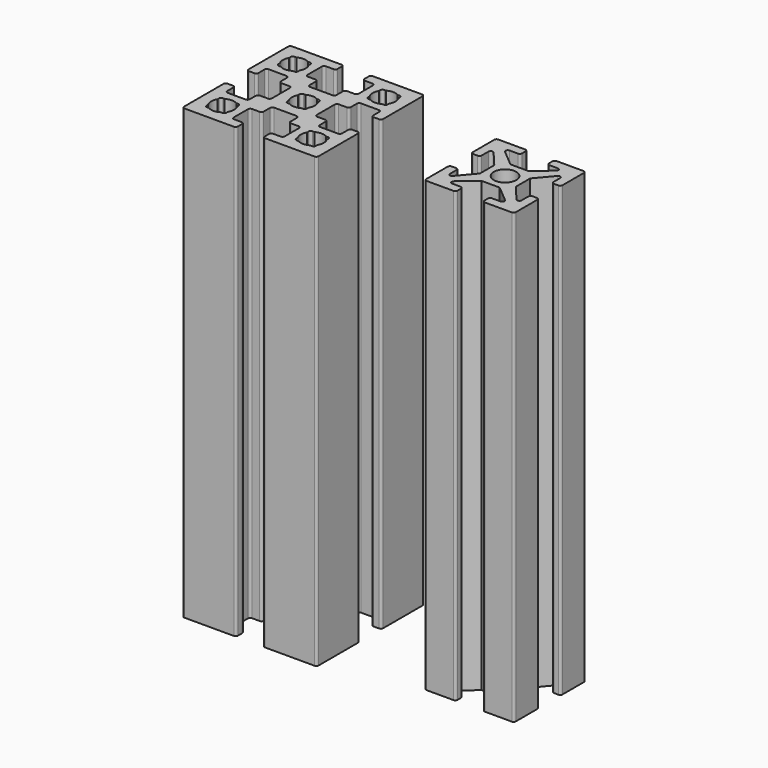
from build123d import *

# Parameters (mm, degrees)
F0_R     = 1.25
F1_DEPTH = 50


with BuildPart() as f1:
    # F0 (on Top) → F1 (new body)
    with BuildSketch(Plane.XY):
        with BuildLine():
            Line((-7.5, -1.75), (-7.5, -7.25))
            ThreePointArc((-7.5, -7.25), (-7.426777, -7.426777), (-7.25, -7.5))
            Line((-7.25, -7.5), (-1.75, -7.5))
            ThreePointArc((-1.75, -7.5), (-1.573223, -7.426777), (-1.5, -7.25))
            Line((-1.5, -7.25), (-1.5, -6.65))
            ThreePointArc((-1.5, -6.65), (-1.573223, -6.473223), (-1.75, -6.4))
            Line((-1.75, -6.4), (-2.6, -6.4))
            ThreePointArc((-2.6, -6.4), (-2.776777, -6.326777), (-2.85, -6.15))
            Line((-2.85, -6.15), (-2.85, -4.15))
            ThreePointArc((-2.85, -4.15), (-2.776777, -3.973223), (-2.6, -3.9))
            Line((-2.6, -3.9), (-1.75, -3.9))
            ThreePointArc((-1.75, -3.9), (-1.573223, -3.826777), (-1.5, -3.65))
            Line((-1.5, -3.65), (-1.5, -2.75))
            ThreePointArc((-1.5, -2.75), (-1.426777, -2.573223), (-1.25, -2.5))
            Line((-1.25, -2.5), (0, -2.5))
            Line((0, -2.5), (1.25, -2.5))
            ThreePointArc((1.25, -2.5), (1.426777, -2.573223), (1.5, -2.75))
            Line((1.5, -2.75), (1.5, -3.65))
            ThreePointArc((1.5, -3.65), (1.573223, -3.826777), (1.75, -3.9))
            Line((1.75, -3.9), (2.6, -3.9))
            ThreePointArc((2.6, -3.9), (2.776777, -3.973223), (2.85, -4.15))
            Line((2.85, -4.15), (2.85, -6.15))
            ThreePointArc((2.85, -6.15), (2.776777, -6.326777), (2.6, -6.4))
            Line((2.6, -6.4), (1.75, -6.4))
            ThreePointArc((1.75, -6.4), (1.573223, -6.473223), (1.5, -6.65))
            Line((1.5, -6.65), (1.5, -7.25))
            ThreePointArc((1.5, -7.25), (1.573223, -7.426777), (1.75, -7.5))
            Line((1.75, -7.5), (7.25, -7.5))
            ThreePointArc((7.25, -7.5), (7.426777, -7.426777), (7.5, -7.25))
            Line((7.5, -7.25), (7.5, -1.75))
            ThreePointArc((7.5, -1.75), (7.426777, -1.573223), (7.25, -1.5))
            Line((7.25, -1.5), (6.65, -1.5))
            ThreePointArc((6.65, -1.5), (6.473223, -1.573223), (6.4, -1.75))
            Line((6.4, -1.75), (6.4, -2.6))
            ThreePointArc((6.4, -2.6), (6.326777, -2.776777), (6.15, -2.85))
            Line((6.15, -2.85), (4.15, -2.85))
            ThreePointArc((4.15, -2.85), (3.973223, -2.776777), (3.9, -2.6))
            Line((3.9, -2.6), (3.9, -1.75))
            ThreePointArc((3.9, -1.75), (3.826777, -1.573223), (3.65, -1.5))
            Line((3.65, -1.5), (2.75, -1.5))
            ThreePointArc((2.75, -1.5), (2.573223, -1.426777), (2.5, -1.25))
            Line((2.5, -1.25), (2.5, 0))
            Line((2.5, 0), (2.5, 1.25))
            ThreePointArc((2.5, 1.25), (2.573223, 1.426777), (2.75, 1.5))
            Line((2.75, 1.5), (3.65, 1.5))
            ThreePointArc((3.65, 1.5), (3.826777, 1.573223), (3.9, 1.75))
            Line((3.9, 1.75), (3.9, 2.6))
            ThreePointArc((3.9, 2.6), (3.973223, 2.776777), (4.15, 2.85))
            Line((4.15, 2.85), (6.15, 2.85))
            ThreePointArc((6.15, 2.85), (6.326777, 2.776777), (6.4, 2.6))
            Line((6.4, 2.6), (6.4, 1.75))
            ThreePointArc((6.4, 1.75), (6.473223, 1.573223), (6.65, 1.5))
            Line((6.65, 1.5), (7.25, 1.5))
            ThreePointArc((7.25, 1.5), (7.426777, 1.573223), (7.5, 1.75))
            Line((7.5, 1.75), (7.5, 7.25))
            ThreePointArc((7.5, 7.25), (7.426777, 7.426777), (7.25, 7.5))
            Line((7.25, 7.5), (1.75, 7.5))
            ThreePointArc((1.75, 7.5), (1.573223, 7.426777), (1.5, 7.25))
            Line((1.5, 7.25), (1.5, 6.65))
            ThreePointArc((1.5, 6.65), (1.573223, 6.473223), (1.75, 6.4))
            Line((1.75, 6.4), (2.6, 6.4))
            ThreePointArc((2.6, 6.4), (2.776777, 6.326777), (2.85, 6.15))
            Line((2.85, 6.15), (2.85, 4.15))
            ThreePointArc((2.85, 4.15), (2.776777, 3.973223), (2.6, 3.9))
            Line((2.6, 3.9), (1.75, 3.9))
            ThreePointArc((1.75, 3.9), (1.573223, 3.826777), (1.5, 3.65))
            Line((1.5, 3.65), (1.5, 2.75))
            ThreePointArc((1.5, 2.75), (1.426777, 2.573223), (1.25, 2.5))
            Line((1.25, 2.5), (0, 2.5))
            Line((0, 2.5), (-1.25, 2.5))
            ThreePointArc((-1.25, 2.5), (-1.426777, 2.573223), (-1.5, 2.75))
            Line((-1.5, 2.75), (-1.5, 3.65))
            ThreePointArc((-1.5, 3.65), (-1.573223, 3.826777), (-1.75, 3.9))
            Line((-1.75, 3.9), (-2.6, 3.9))
            ThreePointArc((-2.6, 3.9), (-2.776777, 3.973223), (-2.85, 4.15))
            Line((-2.85, 4.15), (-2.85, 6.15))
            ThreePointArc((-2.85, 6.15), (-2.776777, 6.326777), (-2.6, 6.4))
            Line((-2.6, 6.4), (-1.75, 6.4))
            ThreePointArc((-1.75, 6.4), (-1.573223, 6.473223), (-1.5, 6.65))
            Line((-1.5, 6.65), (-1.5, 7.25))
            ThreePointArc((-1.5, 7.25), (-1.573223, 7.426777), (-1.75, 7.5))
            Line((-1.75, 7.5), (-7.25, 7.5))
            ThreePointArc((-7.25, 7.5), (-7.426777, 7.426777), (-7.5, 7.25))
            Line((-7.5, 7.25), (-7.5, 1.75))
            ThreePointArc((-7.5, 1.75), (-7.426777, 1.573223), (-7.25, 1.5))
            Line((-7.25, 1.5), (-6.65, 1.5))
            ThreePointArc((-6.65, 1.5), (-6.473223, 1.573223), (-6.4, 1.75))
            Line((-6.4, 1.75), (-6.4, 2.6))
            ThreePointArc((-6.4, 2.6), (-6.326777, 2.776777), (-6.15, 2.85))
            Line((-6.15, 2.85), (-4.15, 2.85))
            ThreePointArc((-4.15, 2.85), (-3.973223, 2.776777), (-3.9, 2.6))
            Line((-3.9, 2.6), (-3.9, 1.75))
            ThreePointArc((-3.9, 1.75), (-3.826777, 1.573223), (-3.65, 1.5))
            Line((-3.65, 1.5), (-2.75, 1.5))
            ThreePointArc((-2.75, 1.5), (-2.573223, 1.426777), (-2.5, 1.25))
            Line((-2.5, 1.25), (-2.5, 0))
            Line((-2.5, 0), (-2.5, -1.25))
            ThreePointArc((-2.5, -1.25), (-2.573223, -1.426777), (-2.75, -1.5))
            Line((-2.75, -1.5), (-3.65, -1.5))
            ThreePointArc((-3.65, -1.5), (-3.826777, -1.573223), (-3.9, -1.75))
            Line((-3.9, -1.75), (-3.9, -2.6))
            ThreePointArc((-3.9, -2.6), (-3.973223, -2.776777), (-4.15, -2.85))
            Line((-4.15, -2.85), (-6.15, -2.85))
            ThreePointArc((-6.15, -2.85), (-6.326777, -2.776777), (-6.4, -2.6))
            Line((-6.4, -2.6), (-6.4, -1.75))
            ThreePointArc((-6.4, -1.75), (-6.473223, -1.573223), (-6.65, -1.5))
            Line((-6.65, -1.5), (-7.25, -1.5))
            ThreePointArc((-7.25, -1.5), (-7.426777, -1.573223), (-7.5, -1.75))
        make_face()
        with BuildLine():
            ThreePointArc((-6.1, -5.64469), (-6.275, -5), (-6.1, -4.35531))
            Line((-6.1, -4.35531), (-6.1, -4.15))
            ThreePointArc((-6.1, -4.15), (-6.026777, -3.973223), (-5.85, -3.9))
            Line((-5.85, -3.9), (-5.64469, -3.9))
            ThreePointArc((-5.64469, -3.9), (-5, -3.725), (-4.35531, -3.9))
            Line((-4.35531, -3.9), (-4.15, -3.9))
            ThreePointArc((-4.15, -3.9), (-3.973223, -3.973223), (-3.9, -4.15))
            Line((-3.9, -4.15), (-3.9, -4.35531))
            ThreePointArc((-3.9, -4.35531), (-3.725, -5), (-3.9, -5.64469))
            Line((-3.9, -5.64469), (-3.9, -5.85))
            ThreePointArc((-3.9, -5.85), (-3.973223, -6.026777), (-4.15, -6.1))
            Line((-4.15, -6.1), (-4.35531, -6.1))
            ThreePointArc((-4.35531, -6.1), (-5, -6.275), (-5.64469, -6.1))
            Line((-5.64469, -6.1), (-5.85, -6.1))
            ThreePointArc((-5.85, -6.1), (-6.026777, -6.026777), (-6.1, -5.85))
            Line((-6.1, -5.85), (-6.1, -5.64469))
        make_face(mode=Mode.SUBTRACT)
        with BuildLine():
            Line((3.9, -5.85), (3.9, -5.64469))
            ThreePointArc((3.9, -5.64469), (3.725, -5), (3.9, -4.35531))
            Line((3.9, -4.35531), (3.9, -4.15))
            ThreePointArc((3.9, -4.15), (3.973223, -3.973223), (4.15, -3.9))
            Line((4.15, -3.9), (4.35531, -3.9))
            ThreePointArc((4.35531, -3.9), (5, -3.725), (5.64469, -3.9))
            Line((5.64469, -3.9), (5.85, -3.9))
            ThreePointArc((5.85, -3.9), (6.026777, -3.973223), (6.1, -4.15))
            Line((6.1, -4.15), (6.1, -4.35531))
            ThreePointArc((6.1, -4.35531), (6.275, -5), (6.1, -5.64469))
            Line((6.1, -5.64469), (6.1, -5.85))
            ThreePointArc((6.1, -5.85), (6.026777, -6.026777), (5.85, -6.1))
            Line((5.85, -6.1), (5.64469, -6.1))
            ThreePointArc((5.64469, -6.1), (5, -6.275), (4.35531, -6.1))
            Line((4.35531, -6.1), (4.15, -6.1))
            ThreePointArc((4.15, -6.1), (3.973223, -6.026777), (3.9, -5.85))
        make_face(mode=Mode.SUBTRACT)
        with BuildLine():
            ThreePointArc((-1.1, -0.64469), (-1.275, 0), (-1.1, 0.64469))
            Line((-1.1, 0.64469), (-1.1, 0.85))
            ThreePointArc((-1.1, 0.85), (-1.026777, 1.026777), (-0.85, 1.1))
            Line((-0.85, 1.1), (-0.64469, 1.1))
            ThreePointArc((-0.64469, 1.1), (0, 1.275), (0.64469, 1.1))
            Line((0.64469, 1.1), (0.85, 1.1))
            ThreePointArc((0.85, 1.1), (1.026777, 1.026777), (1.1, 0.85))
            Line((1.1, 0.85), (1.1, 0.64469))
            ThreePointArc((1.1, 0.64469), (1.275, 0), (1.1, -0.64469))
            Line((1.1, -0.64469), (1.1, -0.85))
            ThreePointArc((1.1, -0.85), (1.026777, -1.026777), (0.85, -1.1))
            Line((0.85, -1.1), (0.64469, -1.1))
            ThreePointArc((0.64469, -1.1), (0, -1.275), (-0.64469, -1.1))
            Line((-0.64469, -1.1), (-0.85, -1.1))
            ThreePointArc((-0.85, -1.1), (-1.026777, -1.026777), (-1.1, -0.85))
            Line((-1.1, -0.85), (-1.1, -0.64469))
        make_face(mode=Mode.SUBTRACT)
        with BuildLine():
            Line((-5.85, 6.1), (-5.64469, 6.1))
            ThreePointArc((-5.64469, 6.1), (-5, 6.275), (-4.35531, 6.1))
            Line((-4.35531, 6.1), (-4.15, 6.1))
            ThreePointArc((-4.15, 6.1), (-3.973223, 6.026777), (-3.9, 5.85))
            Line((-3.9, 5.85), (-3.9, 5.64469))
            ThreePointArc((-3.9, 5.64469), (-3.725, 5), (-3.9, 4.35531))
            Line((-3.9, 4.35531), (-3.9, 4.15))
            ThreePointArc((-3.9, 4.15), (-3.973223, 3.973223), (-4.15, 3.9))
            Line((-4.15, 3.9), (-4.35531, 3.9))
            ThreePointArc((-4.35531, 3.9), (-5, 3.725), (-5.64469, 3.9))
            Line((-5.64469, 3.9), (-5.85, 3.9))
            ThreePointArc((-5.85, 3.9), (-6.026777, 3.973223), (-6.1, 4.15))
            Line((-6.1, 4.15), (-6.1, 4.35531))
            ThreePointArc((-6.1, 4.35531), (-6.275, 5), (-6.1, 5.64469))
            Line((-6.1, 5.64469), (-6.1, 5.85))
            ThreePointArc((-6.1, 5.85), (-6.026777, 6.026777), (-5.85, 6.1))
        make_face(mode=Mode.SUBTRACT)
        with BuildLine():
            Line((3.9, 5.64469), (3.9, 5.85))
            ThreePointArc((3.9, 5.85), (3.973223, 6.026777), (4.15, 6.1))
            Line((4.15, 6.1), (4.35531, 6.1))
            ThreePointArc((4.35531, 6.1), (5, 6.275), (5.64469, 6.1))
            Line((5.64469, 6.1), (5.85, 6.1))
            ThreePointArc((5.85, 6.1), (6.026777, 6.026777), (6.1, 5.85))
            Line((6.1, 5.85), (6.1, 5.64469))
            ThreePointArc((6.1, 5.64469), (6.275, 5), (6.1, 4.35531))
            Line((6.1, 4.35531), (6.1, 4.15))
            ThreePointArc((6.1, 4.15), (6.026777, 3.973223), (5.85, 3.9))
            Line((5.85, 3.9), (5.64469, 3.9))
            ThreePointArc((5.64469, 3.9), (5, 3.725), (4.35531, 3.9))
            Line((4.35531, 3.9), (4.15, 3.9))
            ThreePointArc((4.15, 3.9), (3.973223, 3.973223), (3.9, 4.15))
            Line((3.9, 4.15), (3.9, 4.35531))
            ThreePointArc((3.9, 4.35531), (3.725, 5), (3.9, 5.64469))
        make_face(mode=Mode.SUBTRACT)
        with BuildLine():
            ThreePointArc((17.75, -1.5), (17.573223, -1.573223), (17.5, -1.75))
            Line((17.5, -1.75), (17.5, -4.75))
            ThreePointArc((17.5, -4.75), (17.573223, -4.926777), (17.75, -5))
            Line((17.75, -5), (20.75, -5))
            ThreePointArc((20.75, -5), (20.926777, -4.926777), (21, -4.75))
            Line((21, -4.75), (21, -4.25))
            ThreePointArc((21, -4.25), (20.926777, -4.073223), (20.75, -4))
            Line((20.75, -4), (19.809363, -4))
            ThreePointArc((19.809363, -4), (19.574509, -3.835692), (19.648362, -3.558745))
            Line((19.648362, -3.558745), (21.5, -2))
            Line((21.5, -2), (22.5, -2))
            Line((22.5, -2), (23.5, -2))
            Line((23.5, -2), (25.351638, -3.558745))
            ThreePointArc((25.351638, -3.558745), (25.425491, -3.835692), (25.190637, -4))
            Line((25.190637, -4), (24.25, -4))
            ThreePointArc((24.25, -4), (24.073223, -4.073223), (24, -4.25))
            Line((24, -4.25), (24, -4.75))
            ThreePointArc((24, -4.75), (24.073223, -4.926777), (24.25, -5))
            Line((24.25, -5), (27.25, -5))
            ThreePointArc((27.25, -5), (27.426777, -4.926777), (27.5, -4.75))
            Line((27.5, -4.75), (27.5, -1.75))
            ThreePointArc((27.5, -1.75), (27.426777, -1.573223), (27.25, -1.5))
            Line((27.25, -1.5), (26.75, -1.5))
            ThreePointArc((26.75, -1.5), (26.573223, -1.573223), (26.5, -1.75))
            Line((26.5, -1.75), (26.5, -2.690637))
            ThreePointArc((26.5, -2.690637), (26.335692, -2.925491), (26.058745, -2.851638))
            Line((26.058745, -2.851638), (24.5, -1))
            Line((24.5, -1), (24.5, 0))
            Line((24.5, 0), (24.5, 1))
            Line((24.5, 1), (26.058745, 2.851638))
            ThreePointArc((26.058745, 2.851638), (26.335692, 2.925491), (26.5, 2.690637))
            Line((26.5, 2.690637), (26.5, 1.75))
            ThreePointArc((26.5, 1.75), (26.573223, 1.573223), (26.75, 1.5))
            Line((26.75, 1.5), (27.25, 1.5))
            ThreePointArc((27.25, 1.5), (27.426777, 1.573223), (27.5, 1.75))
            Line((27.5, 1.75), (27.5, 4.75))
            ThreePointArc((27.5, 4.75), (27.426777, 4.926777), (27.25, 5))
            Line((27.25, 5), (24.25, 5))
            ThreePointArc((24.25, 5), (24.073223, 4.926777), (24, 4.75))
            Line((24, 4.75), (24, 4.25))
            ThreePointArc((24, 4.25), (24.073223, 4.073223), (24.25, 4))
            Line((24.25, 4), (25.190637, 4))
            ThreePointArc((25.190637, 4), (25.425491, 3.835692), (25.351638, 3.558745))
            Line((25.351638, 3.558745), (23.5, 2))
            Line((23.5, 2), (22.5, 2))
            Line((22.5, 2), (21.5, 2))
            Line((21.5, 2), (19.648362, 3.558745))
            ThreePointArc((19.648362, 3.558745), (19.574509, 3.835692), (19.809363, 4))
            Line((19.809363, 4), (20.75, 4))
            ThreePointArc((20.75, 4), (20.926777, 4.073223), (21, 4.25))
            Line((21, 4.25), (21, 4.75))
            ThreePointArc((21, 4.75), (20.926777, 4.926777), (20.75, 5))
            Line((20.75, 5), (17.75, 5))
            ThreePointArc((17.75, 5), (17.573223, 4.926777), (17.5, 4.75))
            Line((17.5, 4.75), (17.5, 1.75))
            ThreePointArc((17.5, 1.75), (17.573223, 1.573223), (17.75, 1.5))
            Line((17.75, 1.5), (18.25, 1.5))
            ThreePointArc((18.25, 1.5), (18.426777, 1.573223), (18.5, 1.75))
            Line((18.5, 1.75), (18.5, 2.690637))
            ThreePointArc((18.5, 2.690637), (18.664308, 2.925491), (18.941255, 2.851638))
            Line((18.941255, 2.851638), (20.5, 1))
            Line((20.5, 1), (20.5, 0))
            Line((20.5, 0), (20.5, -1))
            Line((20.5, -1), (18.941255, -2.851638))
            ThreePointArc((18.941255, -2.851638), (18.664308, -2.925491), (18.5, -2.690637))
            Line((18.5, -2.690637), (18.5, -1.75))
            ThreePointArc((18.5, -1.75), (18.426777, -1.573223), (18.25, -1.5))
            Line((18.25, -1.5), (17.75, -1.5))
        make_face()
        with Locations((22.5, 0)):
            Circle(F0_R, mode=Mode.SUBTRACT)
    extrude(amount=F1_DEPTH)


solid = f1.part
